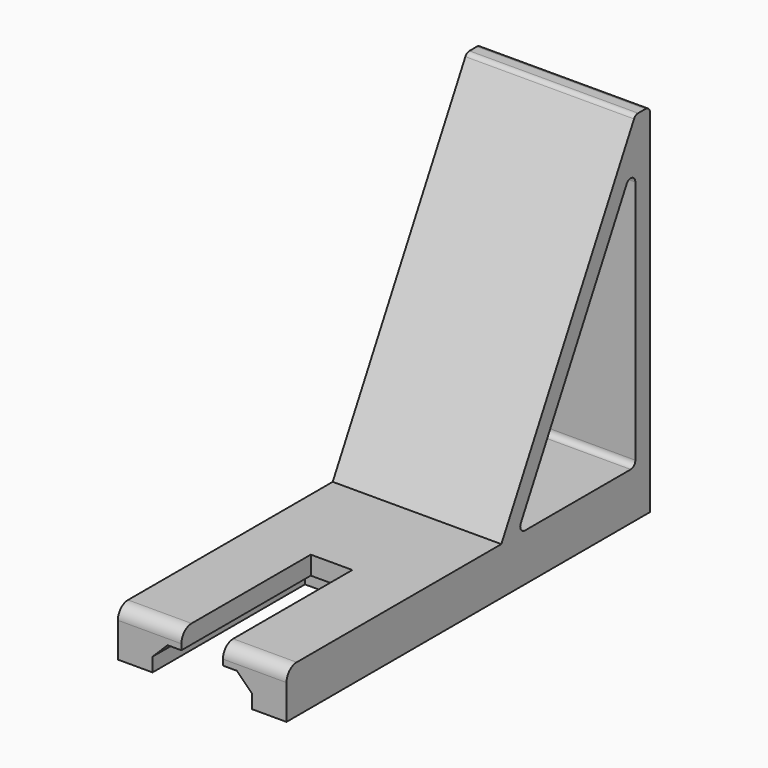
from build123d import *

# Parameters (mm, degrees)
PAD002_DEPTH = 5
PAD001_DEPTH = 29.2
FILLET001_R  = 1
PAD_DEPTH    = 3.2
FILLET_R     = 2.2
CHAMFER_SIZE = 2.6


with BuildPart() as body002:
    # Sketch002 (on Face1 of ReferenceFillet) → Pad002 (new body)
    with BuildSketch(Plane(origin=(0, 0, 0), x_dir=(1, 0, 0), z_dir=(0, 0, -1))):
        Polygon((14.6, -55.45), (14.6, 23.25), (8.6, 23.25), (8.6, -9.75), (-8.6, -9.75), (-8.6, 23.25), (-14.6, 23.25), (-14.6, -55.45), align=None)
    extrude(amount=PAD002_DEPTH)


with BuildPart() as body001:
    # Sketch001 (on Face1 of Binder) → Pad001 (new body)
    with BuildSketch(Plane.YZ.offset(14.6)):
        Polygon((23.25, 0), (55.45, 0), (55.45, 56.859816), (52.25, 56.859816), (23.25, 3.2), align=None)
        Polygon((26.660087, 3.2), (52.25, 3.2), (52.25, 50.55), align=None, mode=Mode.SUBTRACT)
    extrude(amount=-PAD001_DEPTH)

    # Fillet001
    fillet001_edges = [body001.edges().sort_by_distance(p)[0] for p in [
        (0, 52.25, 3.2),
        (0, 26.660087, 3.2),
        (0, 52.25, 50.55),
        (0, 52.25, 56.859816),
        (0, 55.45, 56.859816),
    ]]
    fillet(fillet001_edges, radius=FILLET001_R)


with BuildPart() as chamfer_body:
    # Sketch → Pad (new body)
    with BuildSketch(Plane.XY):
        Polygon((-14.6, 23.25), (-14.6, -23.25), (-3.6, -23.25), (-3.6, 4.75), (3.6, 4.75), (3.6, -23.25), (14.6, -23.25), (14.6, 23.25), align=None)
    extrude(amount=PAD_DEPTH)

    # Fillet
    fillet_edges = [chamfer_body.edges().sort_by_distance(p)[0] for p in [
        (9.1, -23.25, 3.2),
        (-9.1, -23.25, 3.2),
    ]]
    fillet(fillet_edges, radius=FILLET_R)

    # Fusion: union Body002, Body001
    add(body002.part)
    add(body001.part)

    # Chamfer
    chamfer_edges = [chamfer_body.edges().sort_by_distance(p)[0] for p in [
        (-8.6, -6.75, 0),
        (0, 9.75, 0),
        (8.6, -6.75, 0),
    ]]
    chamfer(chamfer_edges, length=CHAMFER_SIZE)


solid = chamfer_body.part
